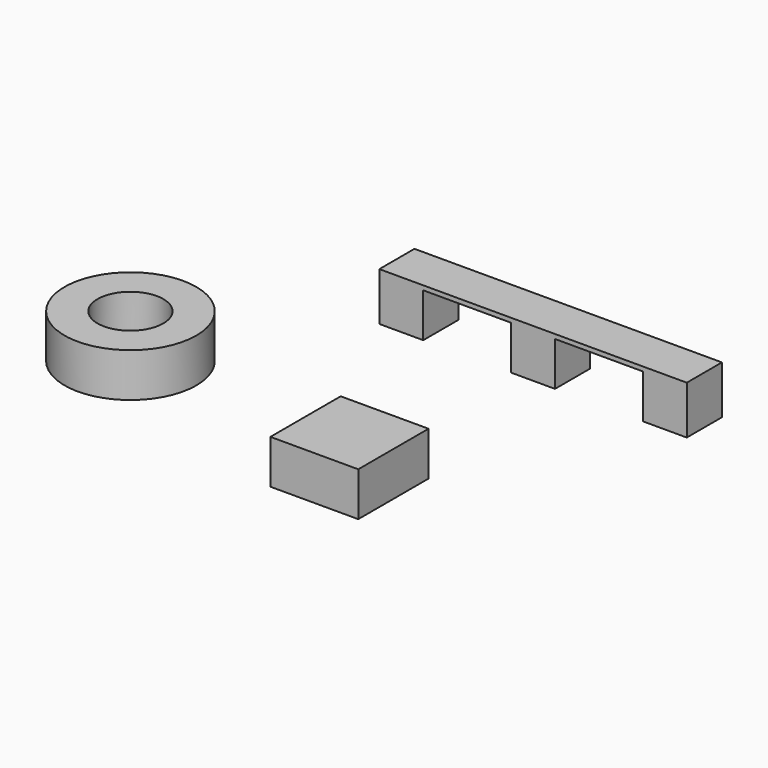
from build123d import *

# Parameters (mm, degrees)
F0_W     = 20
F0_H     = 20
F1_DEPTH = 10
F2_W     = 10
F2_H     = 10
F3_DEPTH = 10
F4_W     = 70
F4_H     = 10
F5_DEPTH = 1
F6_R     = 15
F6_R_2   = 7.5
F7_DEPTH = 10


with BuildPart() as f1:
    # F0 (on Top) → F1 (new body)
    with BuildSketch(Plane.XY):
        Rectangle(F0_W, F0_H)
    extrude(amount=F1_DEPTH)


with BuildPart() as f3:
    # F2 (on Top) → F3 (new body)
    with BuildSketch(Plane.XY):
        with Locations((-29.024249, 56.026291)):
            Rectangle(F2_W, F2_H)
        with Locations((0.975751, 56.026291)):
            Rectangle(F2_W, F2_H)
        with Locations((30.975751, 56.026291)):
            Rectangle(F2_W, F2_H)
    extrude(amount=F3_DEPTH)

    # F4 (on face) → F5 (join)
    with BuildSketch(Plane.XY.offset(10)):
        with Locations((0.975751, 56.026291)):
            Rectangle(F4_W, F4_H)
    extrude(amount=F5_DEPTH)


with BuildPart() as f7:
    # F6 (on Top) → F7 (new body)
    with BuildSketch(Plane.XY):
        with Locations((-59.643239, 12.224113)):
            Circle(F6_R)
        with Locations((-59.643239, 12.224113)):
            Circle(F6_R_2, mode=Mode.SUBTRACT)
    extrude(amount=F7_DEPTH)


solid = Compound([f1.part, f3.part, f7.part])
